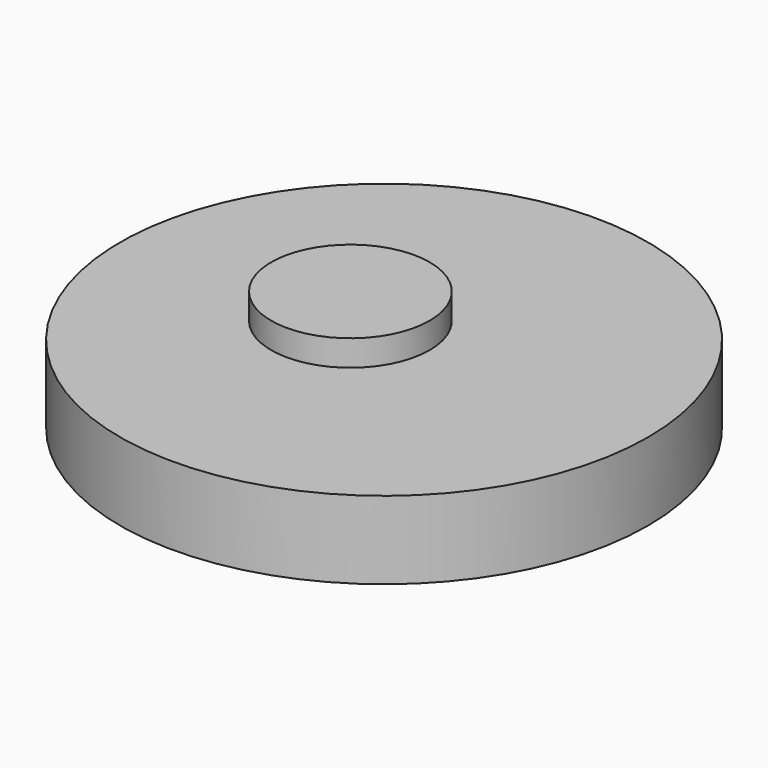
from build123d import *

# Parameters (mm, degrees)
F0_R     = 43.938872
F1_DEPTH = 12.954
F2_R     = 13.186842
F3_DEPTH = 4.318
F4_R     = 13.716315
F5_DEPTH = 4.318


with BuildPart() as f1:
    # F0 (on Top) → F1 (new body)
    with BuildSketch(Plane.XY):
        with Locations((-21.176565, 11.984369)):
            Circle(F0_R)
    extrude(amount=F1_DEPTH)

    # F2 (on face) → F3 (join)
    with BuildSketch(Plane.XY.offset(12.954)):
        with Locations((-27.908787, 13.394361)):
            Circle(F2_R)
    extrude(amount=F3_DEPTH)

    # F4 (on face) → F5 (join)
    with BuildSketch(Plane(origin=(0, 0, 0), x_dir=(1, 0, 0), z_dir=(0, 0, -1))):
        with Locations((-18.256115, 0)):
            Circle(F4_R)
    extrude(amount=F5_DEPTH)


solid = f1.part
